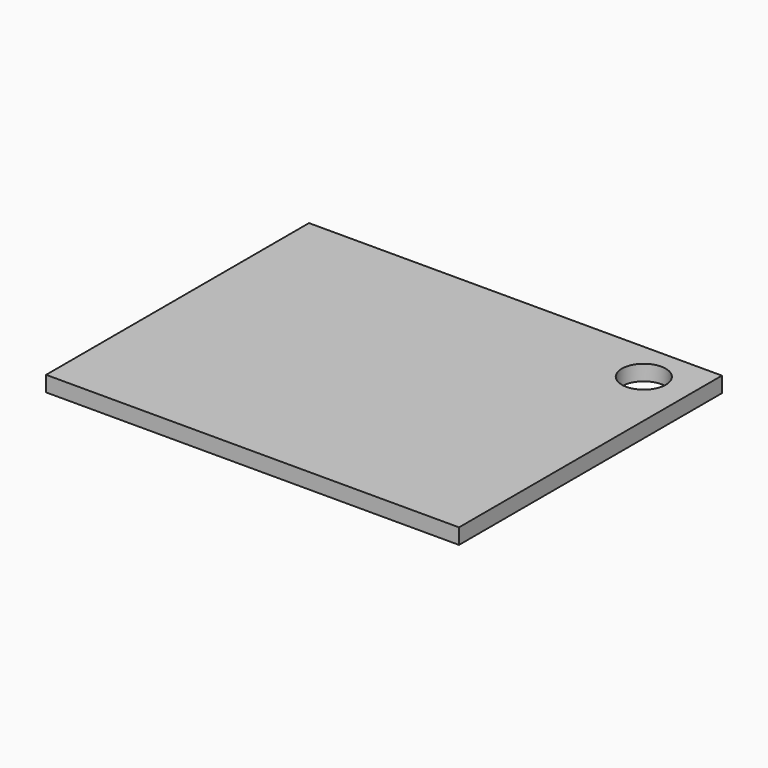
from build123d import *

# Parameters (mm, degrees)
SKETCH_W  = 480
SKETCH_H  = 382
SKETCH_R  = 25.5
PAD_DEPTH = 18


with BuildPart() as part:
    # Sketch → Pad (new body)
    with BuildSketch(Plane.XY):
        with Locations((-240, 191)):
            Rectangle(SKETCH_W, SKETCH_H)
        with Locations((-54, 336)):
            Circle(SKETCH_R, mode=Mode.SUBTRACT)
    extrude(amount=PAD_DEPTH)


solid = part.part
